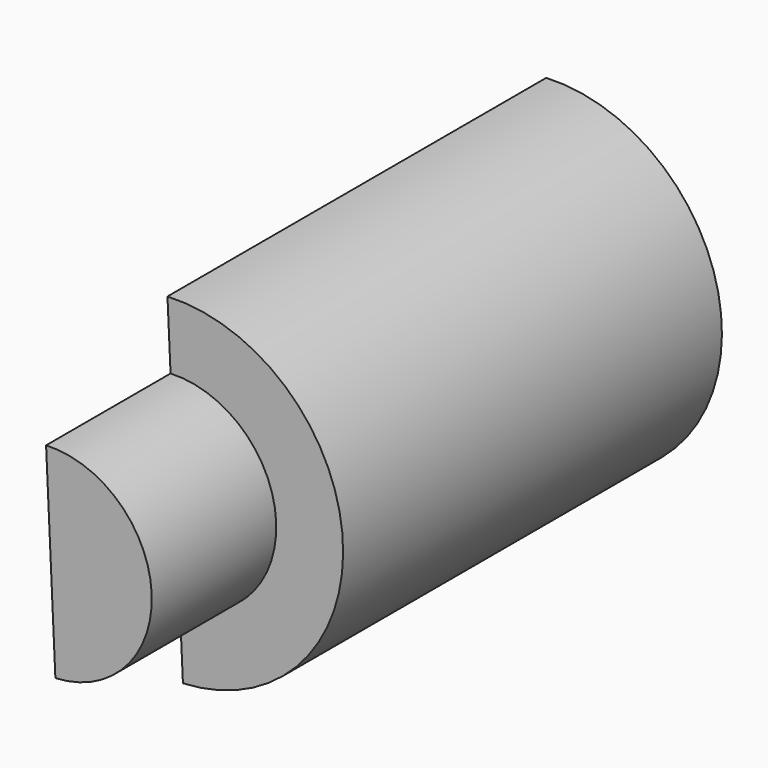
from build123d import *

# Parameters (mm, degrees)
F1_DEPTH = 33.782
F3_DEPTH = 11.0998


with BuildPart() as f1:
    # F0 (on Front) → F1 (new body)
    with BuildSketch(Plane.XZ):
        with BuildLine():
            Line((-60.427879, 66.98028), (-59.325351, 43.042825))
            ThreePointArc((-59.325351, 43.042825), (-47.907887, 55.562817), (-60.427879, 66.98028))
        make_face()
    extrude(amount=F1_DEPTH)

    # F2 (on face) → F3 (join)
    with BuildSketch(Plane.XZ.offset(33.782)):
        with BuildLine():
            Line((-60.208346, 62.213896), (-59.544884, 47.809209))
            ThreePointArc((-59.544884, 47.809209), (-52.674271, 55.343283), (-60.208346, 62.213896))
        make_face()
    extrude(amount=F3_DEPTH)


solid = f1.part
